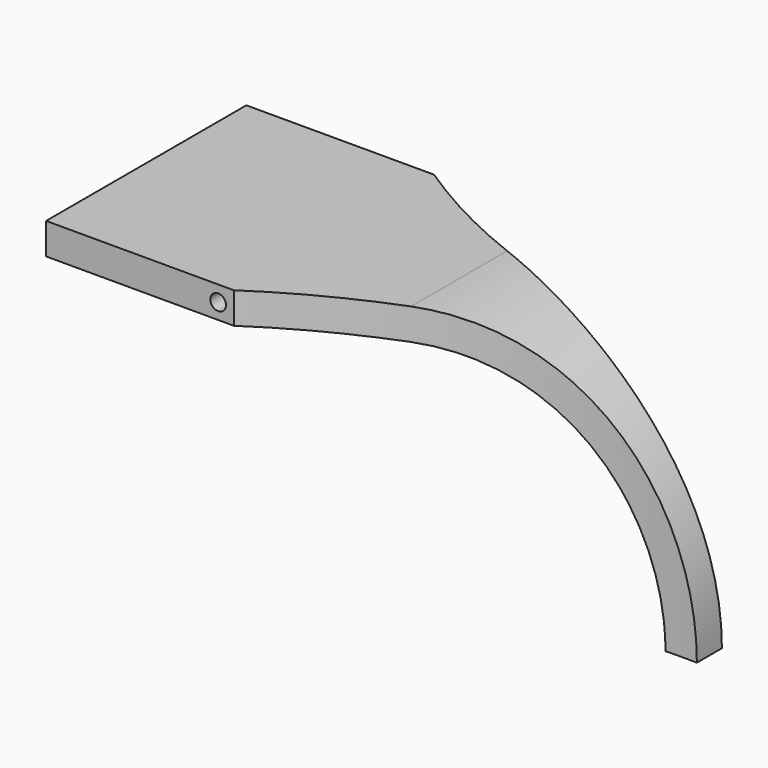
from build123d import *

# Parameters (mm, degrees)
F1_DEPTH = 50.8
F3_DEPTH = 50.801
F4_W     = 50.8
F4_H     = 6.35
F5_DEPTH = 38.1
F6_R     = 1.5875
F7_DEPTH = 50.801


with BuildPart() as f1:
    # F0 (on Front) → F1 (new body)
    with BuildSketch(Plane.XZ):
        with BuildLine():
            Line((0, 6.35), (0, 0))
            Line((0, 0), (25.4, 0))
            ThreePointArc((25.4, 0), (56.830896, -13.019104), (69.85, -44.45))
            Line((69.85, -44.45), (76.2, -44.45))
            ThreePointArc((76.2, -44.45), (61.321024, -8.528976), (25.4, 6.35))
            Line((25.4, 6.35), (0, 6.35))
        make_face()
    extrude(amount=F1_DEPTH)

    # F2 (on face) → F3 (cut, through all)
    with BuildSketch(Plane.XY.offset(6.35)):
        with BuildLine():
            ThreePointArc((76.2, -28.575), (36.401015, -33.862407), (0, -50.8))
            Line((0, -50.8), (76.2, -50.8))
            Line((76.2, -50.8), (76.2, -28.575))
        make_face()
        with BuildLine():
            Line((76.2, 0), (0, 0))
            ThreePointArc((0, 0), (36.401015, -16.937593), (76.2, -22.225))
            Line((76.2, -22.225), (76.2, 0))
        make_face()
    extrude(amount=-F3_DEPTH, mode=Mode.SUBTRACT)

    # F4 (on face) → F5 (join)
    with BuildSketch(Plane(origin=(0, 0, 0), x_dir=(0, -1, 0), z_dir=(-1, 0, 0))):
        with Locations((25.4, 3.175)):
            Rectangle(F4_W, F4_H)
    extrude(amount=F5_DEPTH)

    # F6 (on face) → F7 (cut, through all)
    with BuildSketch(Plane.XZ.offset(50.8)):
        with Locations((-3.175, 3.175)):
            Circle(F6_R)
    extrude(amount=-F7_DEPTH, mode=Mode.SUBTRACT)


solid = f1.part
